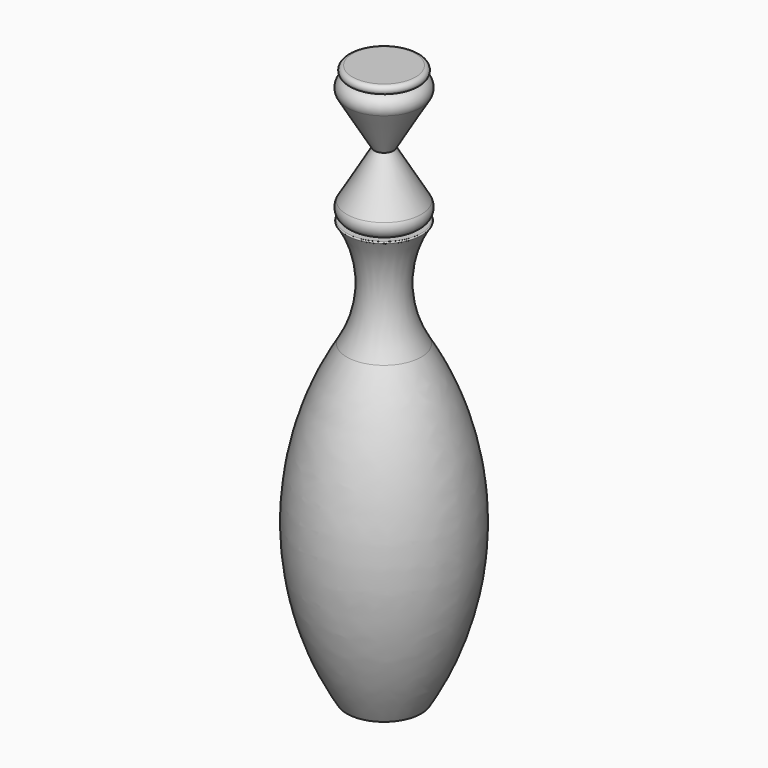
from build123d import *


with BuildPart() as f1:
    # F0 (on Front) → F1 (revolve)
    with BuildSketch(Plane.XZ):
        with BuildLine():
            Line((0, -75), (5, -75))
            ThreePointArc((5, -75), (10.899277, -53.928076), (5, -32.856152))
            ThreePointArc((5, -32.856152), (2.989307, -25.674058), (5, -18.491964))
            ThreePointArc((5, -18.491964), (5.016147, -18.473797), (5.037672, -18.462509))
            ThreePointArc((5.037672, -18.462509), (5.125089, -18.322662), (5, -18.215184))
            Line((5, -18.215184), (3.726287, -18.215184))
            ThreePointArc((3.726287, -18.215184), (5.009562, -17.470604), (5, -15.986992))
            Line((5, -15.986992), (1.284256, -9.676992))
            Line((1.284256, -9.676992), (5, -3.366992))
            ThreePointArc((5, -3.366992), (5.009562, -1.88338), (3.726287, -1.1388))
            Line((3.726287, -1.1388), (4.239262, -1.1388))
            ThreePointArc((4.239262, -1.1388), (4.808661, -0.5694), (4.239262, 0))
            Line((4.239262, 0), (0, 0))
            Line((0, 0), (0, -75))
        make_face()
    revolve(axis=Axis((0, 0, -37.5), (0, 0, 1)))


solid = f1.part
